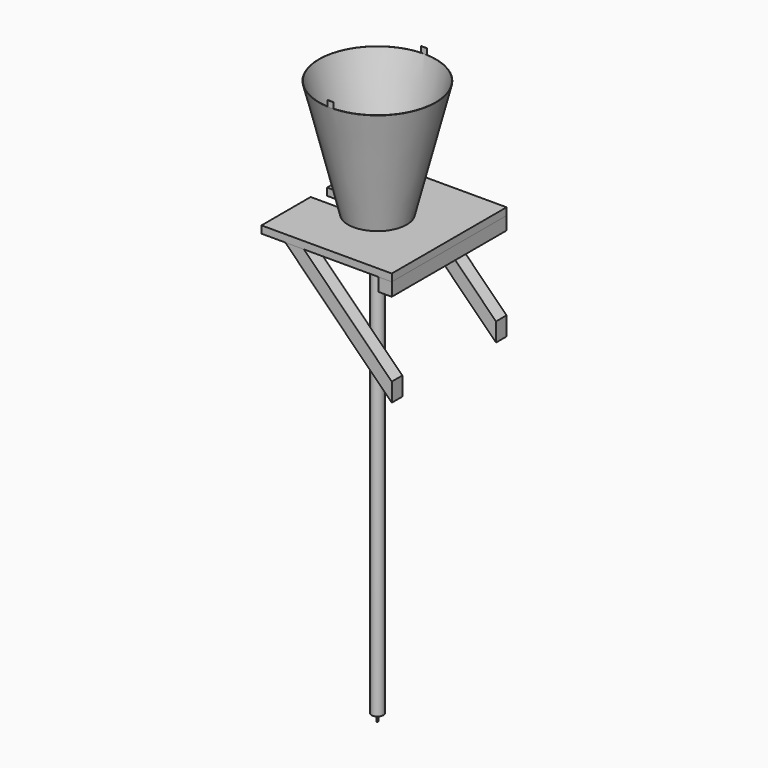
from build123d import *

# Parameters (mm, degrees)
F5_R      = 20
F5_R_2    = 19
F6_DEPTH  = 1500
F7_R      = 19
F8_DEPTH  = 400.243535625
F10_W     = 20
F10_H     = 0.9701425001
F11_DEPTH = 20
F12_R     = 20
F13_DEPTH = 1
F14_R     = 3
F15_DEPTH = 25
F17_DEPTH = 25
F18_W     = 45
F18_H     = 490
F19_DEPTH = 45
F21_DEPTH = 45


with BuildPart() as f4:
    # F3 (on Front) → F4 (revolve)
    with BuildSketch(Plane.XZ):
        Polygon((-199.0298574999, 400.242535625), (-200, 400), (-100, 0), (0, 0), (0, 1), (-99.2192235936, 1), align=None)
    revolve(axis=Axis((0, 0, 11.2295082571), (0, 0, -1)))

    # F5 (on Top) → F6 (join)
    with BuildSketch(Plane.XY):
        Circle(F5_R)
        Circle(F5_R_2, mode=Mode.SUBTRACT)
    extrude(amount=-F6_DEPTH)

    # F7 (on Top) → F8 (cut, through all)
    with BuildSketch(Plane.XY):
        Circle(F7_R)
    extrude(amount=F8_DEPTH, mode=Mode.SUBTRACT)

    # F10 (on offset) → F11 (join)
    with BuildSketch(Plane.XY.offset(400)):
        with Locations((0, -199.5149287499)):
            Rectangle(F10_W, F10_H)
        with Locations((0, 199.5149287499)):
            Rectangle(F10_W, F10_H)
    extrude(amount=F11_DEPTH)

    # F12 (on face) → F13 (join)
    with BuildSketch(Plane(origin=(0, 0, -1500), x_dir=(1, 0, 0), z_dir=(0, 0, -1))):
        Circle(F12_R)
    extrude(amount=F13_DEPTH)

    # F16 (on Top) → F17 (join)
    with BuildSketch(Plane.XY):
        with BuildLine():
            Line((-200, -245), (245, -245))
            Line((245, -245), (245, 245))
            Line((245, 245), (-200, 245))
            Line((-200, 245), (-200, 35))
            Line((-200, 35), (0, 35))
            ThreePointArc((0, 35), (35, 0), (0, -35))
            Line((0, -35), (-200, -35))
            Line((-200, -35), (-200, -245))
        make_face()
    extrude(amount=-F17_DEPTH)


with BuildPart() as f15:
    # F14 (on face) → F15 (new body)
    with BuildSketch(Plane(origin=(0, 0, -1501), x_dir=(1, 0, 0), z_dir=(0, 0, -1))):
        Circle(F14_R)
    extrude(amount=F15_DEPTH)


with BuildPart() as f19:
    # F18 (on face) → F19 (new body)
    with BuildSketch(Plane(origin=(0, 0, -25), x_dir=(1, 0, 0), z_dir=(0, 0, -1))):
        with Locations((222.5, 0)):
            Rectangle(F18_W, F18_H)
    extrude(amount=F19_DEPTH)


with BuildPart() as f21:
    # F20 (on face) → F21 (new body)
    with BuildSketch(Plane.XZ.offset(245)):
        Polygon((-55, -25), (-118.6396103068, -25), (245, -388.6396103068), (245, -325), align=None)
    extrude(amount=-F21_DEPTH)


with BuildPart() as f22_1:
    # F22: instance of F21
    add(f21.part.mirror(Plane.XZ))


solid = Compound([f4.part, f15.part, f19.part, f21.part, f22_1.part])
